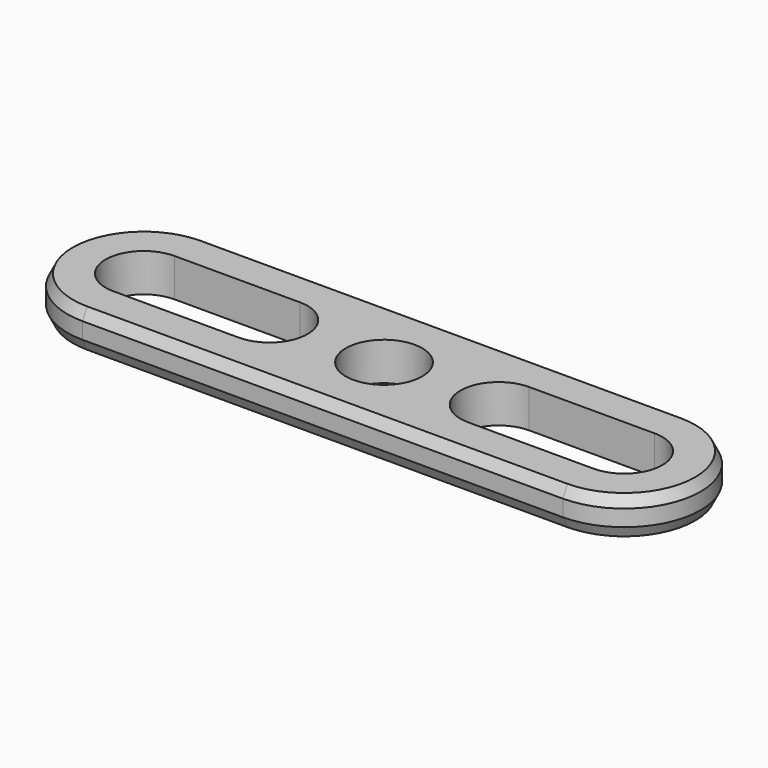
from build123d import *

# Parameters (mm, degrees)
F0_R       = 3.5
F1_DEPTH   = 3.5
F2_SIZE2   = 1
F2_SIZE    = 0.5
F2_2_SIZE2 = 1
F2_2_SIZE  = 0.5


with BuildPart() as f1:
    # F0 (on Top) → F1 (new body)
    with BuildSketch(Plane.XY):
        with BuildLine():
            ThreePointArc((0, 14), (-7, 7), (0, 0))
            Line((0, 0), (44, 0))
            ThreePointArc((44, 0), (51, 7), (44, 14))
            Line((44, 14), (0, 14))
        make_face()
        with BuildLine():
            ThreePointArc((0, 3.5), (-3.5, 7), (0, 10.5))
            Line((0, 10.5), (11.5, 10.5))
            ThreePointArc((11.5, 10.5), (15, 7), (11.5, 3.5))
            Line((11.5, 3.5), (0, 3.5))
        make_face(mode=Mode.SUBTRACT)
        with Locations((22, 7)):
            Circle(F0_R, mode=Mode.SUBTRACT)
        with BuildLine():
            ThreePointArc((32.5, 3.5), (29, 7), (32.5, 10.5))
            Line((32.5, 10.5), (44, 10.5))
            ThreePointArc((44, 10.5), (47.5, 7), (44, 3.5))
            Line((44, 3.5), (32.5, 3.5))
        make_face(mode=Mode.SUBTRACT)
    extrude(amount=F1_DEPTH)

    # F2
    f2_edges = [f1.edges().sort_by_distance(p)[0] for p in [
        (22, 0, 3.5),
    ]]
    f2_side = f1.faces().sort_by_distance((22, 0.596657, 3.5))[0]
    chamfer(f2_edges, length=F2_SIZE, length2=F2_SIZE2, reference=f2_side)

    # F2#2
    f2_2_edges = [f1.edges().sort_by_distance(p)[0] for p in [
        (22, 0, 0),
    ]]
    f2_2_side = f1.faces().sort_by_distance((22, 0.596657, 0))[0]
    chamfer(f2_2_edges, length=F2_2_SIZE, length2=F2_2_SIZE2, reference=f2_2_side)


solid = f1.part
